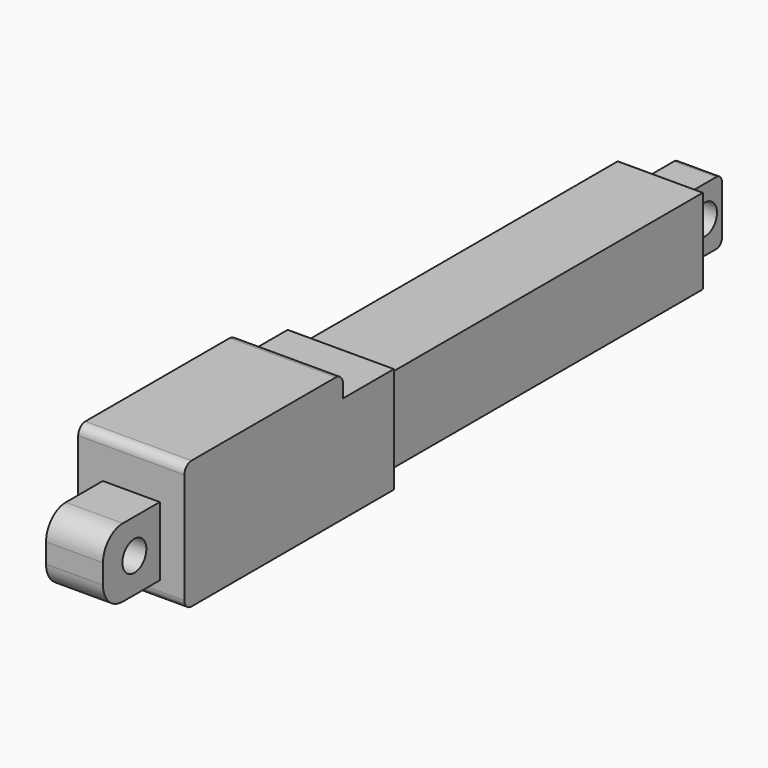
from build123d import *

# Parameters (mm, degrees)
F0_W      = 12.065
F0_H      = 12.065
F1_DEPTH  = 56.642
F2_W      = 15.0622
F2_H      = 15.0622
F2_W_2    = 12.065
F2_H_2    = 12.065
F3_DEPTH  = 37.3126
F4_W      = 15.0622
F4_H      = 3.1496
F5_DEPTH  = 37.3126
F6_W      = 9.2009786564
F6_H      = 3.1496
F7_DEPTH  = 254
F8_R      = 0.254
F9_R      = 1.27
F10_W     = 8.0772
F10_H     = 9.779
F11_DEPTH = 10.0584
F12_R     = 2.125
F13_DEPTH = 25
F14_R     = 3.5
F16_R     = 2.125
F17_DEPTH = 3


with BuildPart() as f1:
    # F0 (on Front) → F1 (new body)
    with BuildSketch(Plane.XZ):
        Rectangle(F0_W, F0_H)
    extrude(amount=F1_DEPTH)

    # F2 (on face) → F3 (join)
    with BuildSketch(Plane.XZ.offset(56.642)):
        Rectangle(F2_W, F2_H)
        Rectangle(F2_W_2, F2_H_2, mode=Mode.SUBTRACT)
        Rectangle(F2_W_2, F2_H_2)
    extrude(amount=F3_DEPTH)

    # F4 (on face) → F5 (join, through all)
    with BuildSketch(Plane(origin=(0, -56.642, 0), x_dir=(-1, 0, 0), z_dir=(0, 1, 0))):
        with Locations((0, 9.1059)):
            Rectangle(F4_W, F4_H)
    extrude(amount=-F5_DEPTH)

    # F6 (on face) → F7 (cut)
    with BuildSketch(Plane.YZ.offset(7.5311)):
        with Locations((-61.2424893282, 9.1059)):
            Rectangle(F6_W, F6_H)
    extrude(amount=-F7_DEPTH, mode=Mode.SUBTRACT)

    # F8
    f8_edges = [f1.edges().sort_by_distance(p)[0] for p in [
        (0, -56.642, 7.5311),
        (7.5311, -56.642, 0),
        (0, -56.642, -7.5311),
        (-7.5311, -56.642, 0),
        (-6.0325, 0, 0),
        (0, 0, 6.0325),
        (6.0325, 0, 0),
        (0, 0, -6.0325),
    ]]
    fillet(f8_edges, radius=F8_R)

    # F9
    f9_edges = [f1.edges().sort_by_distance(p)[0] for p in [
        (0, -65.842979, 10.6807),
        (0, -93.9546, 10.6807),
        (0, -93.9546, -7.5311),
    ]]
    fillet(f9_edges, radius=F9_R)

    # F10 (on face) → F11 (join)
    with BuildSketch(Plane.XZ.offset(93.9546)):
        Rectangle(F10_W, F10_H)
    extrude(amount=F11_DEPTH)

    # F12 (on face) → F13 (cut)
    with BuildSketch(Plane(origin=(-4.0386, 0, 0), x_dir=(0, -1, 0), z_dir=(-1, 0, 0))):
        with Locations((98.4546, 0)):
            Circle(F12_R)
    extrude(amount=-F13_DEPTH, mode=Mode.SUBTRACT)

    # F14
    f14_edges = [f1.edges().sort_by_distance(p)[0] for p in [
        (0, -104.013, 4.8895),
        (0, -104.013, -4.8895),
    ]]
    fillet(f14_edges, radius=F14_R)

    # F16 (on Right) → F17 (join, symmetric)
    with BuildSketch(Plane.YZ):
        with BuildLine():
            Line((0, 4.4995), (0, -4.5005))
            Line((0, -4.5005), (6, -4.5005))
            ThreePointArc((6, -4.5005), (6.7071067812, -4.2076067812), (7, -3.5005))
            Line((7, -3.5005), (7, 3.4995))
            ThreePointArc((7, 3.4995), (6.7071067812, 4.2066067812), (6, 4.4995))
            Line((6, 4.4995), (0, 4.4995))
        make_face()
        with Locations((4, 0)):
            Circle(F16_R, mode=Mode.SUBTRACT)
    extrude(amount=F17_DEPTH, both=True)


solid = f1.part
